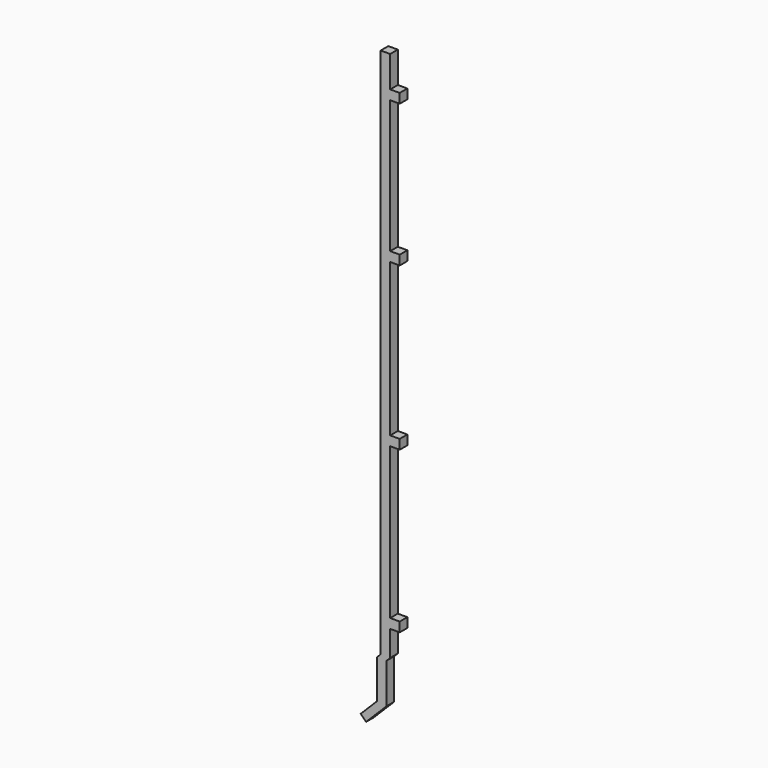
from build123d import *

# Parameters (mm, degrees)
F0_W     = 1.5
F0_H     = 1.5
F1_DEPTH = 0.75


with BuildPart() as f1:
    # F0 (on Front) → F1 (new body, symmetric)
    with BuildSketch(Plane.XZ):
        Polygon((-54.428298, -57.24404), (-53.57977, -58.092568), (-50.37977, -54.892568), (-50.37977, -48.592568), (-49.77977, -47.992568), (-49.77977, -43.974031), (-49.77977, -42.474031), (-49.77977, -18.689784), (-49.77977, -17.189784), (-49.77977, -13.796059), (-49.77977, -12.296059), (-49.77977, 6.816904), (-49.77977, 8.316904), (-49.77977, 29.209403), (-49.77977, 30.709403), (-49.77977, 35.607432), (-51.27977, 35.607432), (-51.27977, -47.992568), (-51.87977, -48.592568), (-51.87977, -54.695512), align=None)
        with Locations((-49.02977, -43.224031)):
            Rectangle(F0_W, F0_H)
        with Locations((-49.02977, -17.939784)):
            Rectangle(F0_W, F0_H)
        with Locations((-49.02977, 29.959403)):
            Rectangle(F0_W, F0_H)
        with Locations((-49.02977, 7.566904)):
            Rectangle(F0_W, F0_H)
    extrude(amount=F1_DEPTH, both=True)


solid = f1.part
